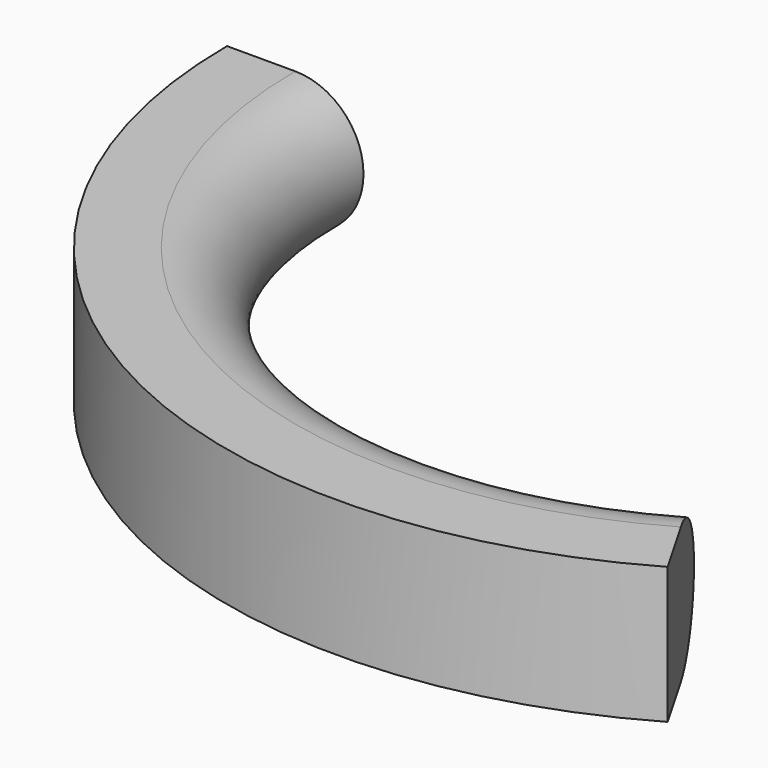
from build123d import *

# Parameters (mm, degrees)
F0_W     = 4
F0_H     = 8
F1_ANGLE = 120


with BuildPart() as f1:
    # F0 (on Front) → F1 (revolve)
    with BuildSketch(Plane.XZ):
        with Locations((3.19102, 1.671238)):
            Rectangle(F0_W, F0_H)
        with BuildLine():
            Line((5.19102, 5.671238), (5.19102, -2.328762))
            ThreePointArc((5.19102, -2.328762), (9.19102, 1.671238), (5.19102, 5.671238))
        make_face()
    revolve(axis=Axis((33.19102, 0, 1.836478), (0, 0, 1)), revolution_arc=F1_ANGLE)


solid = f1.part
